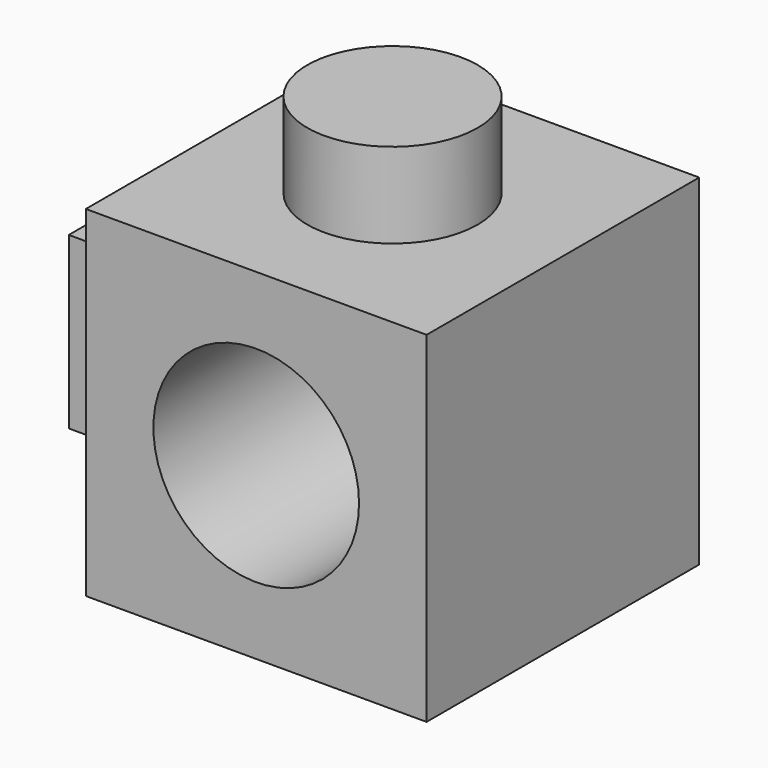
from build123d import *

# Parameters (mm, degrees)
F0_W     = 50.8
F0_H     = 50.8
F1_DEPTH = 50.8
F2_R     = 15.329647
F3_DEPTH = 50.8
F4_R     = 12.7
F5_DEPTH = 12.7
F6_W     = 25.4
F6_H     = 25.4
F7_DEPTH = 12.7


with BuildPart() as f1:
    # F0 (on Front) → F1 (new body)
    with BuildSketch(Plane.XZ):
        with Locations((-38.289552, 25.4)):
            Rectangle(F0_W, F0_H)
    extrude(amount=F1_DEPTH)

    # F2 (on face) → F3 (cut)
    with BuildSketch(Plane.XZ.offset(50.8)):
        with Locations((-38.289552, 25.4)):
            Circle(F2_R)
    extrude(amount=-F3_DEPTH, mode=Mode.SUBTRACT)

    # F4 (on face) → F5 (join)
    with BuildSketch(Plane.XY.offset(50.8)):
        with Locations((-38.289552, -25.4)):
            Circle(F4_R)
    extrude(amount=F5_DEPTH)

    # F6 (on face) → F7 (join)
    with BuildSketch(Plane(origin=(-63.689552, 0, 0), x_dir=(0, -1, 0), z_dir=(-1, 0, 0))):
        with Locations((25.4, 25.4)):
            Rectangle(F6_W, F6_H)
    extrude(amount=F7_DEPTH)


solid = f1.part
